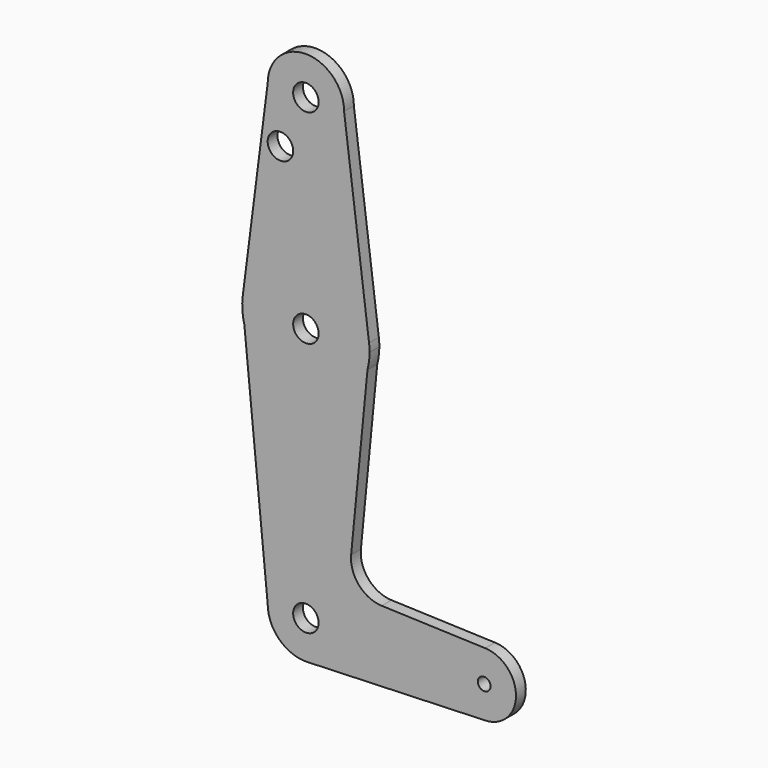
from build123d import *

# Parameters (mm, degrees)
F0_R     = 3.175
F0_R_2   = 1.5875
F1_DEPTH = 3.048


with BuildPart() as f1:
    # F0 (on Front) → F1 (new body)
    with BuildSketch(Plane.XZ):
        with BuildLine():
            ThreePointArc((-9.525, 50.8), (0, 41.275), (9.525, 50.8))
            ThreePointArc((9.525, 50.8), (0, 60.325), (-9.525, 50.8))
        make_face()
        with Locations((0, 50.8)):
            Circle(F0_R, mode=Mode.SUBTRACT)
        with BuildLine():
            Line((15.7474569047, 2.0082893304), (9.525, 50.8))
            ThreePointArc((9.525, 50.8), (0, 41.275), (-9.525, 50.8))
            Line((-9.525, 50.8), (-15.7474569047, 2.0082893304))
            ThreePointArc((-15.7474569047, 2.0082893304), (0, 15.875), (15.7474569047, 2.0082893304))
        make_face()
        with Locations((-6.3499999233, 37.9903614521)):
            Circle(F0_R, mode=Mode.SUBTRACT)
        with BuildLine():
            ThreePointArc((15.875, 0), (15.8430821396, 1.0061676396), (15.7474569047, 2.0082893304))
            ThreePointArc((15.7474569047, 2.0082893304), (0, 15.875), (-15.7474569047, 2.0082893304))
            ThreePointArc((-15.7474569047, 2.0082893304), (-15.8410772543, -1.0372542708), (-15.3511220626, -4.0445860627))
            ThreePointArc((-15.3511220626, -4.0445860627), (0.0095201925, -15.8749971454), (15.3559620737, -4.0261711081))
            ThreePointArc((15.3559620737, -4.0261711081), (15.7447058232, -2.0297446983), (15.875, 0))
        make_face()
        Circle(F0_R, mode=Mode.SUBTRACT)
        with BuildLine():
            ThreePointArc((15.3559620737, -4.0261711081), (0.0095201925, -15.8749971454), (-15.3511220626, -4.0445860627))
            Line((-15.3511220626, -4.0445860627), (-9.525, -63.5))
            ThreePointArc((-9.525, -63.5), (0, -53.975), (9.525, -63.5))
            ThreePointArc((9.525, -63.5), (6.8547876396, -70.113434162), (0.3412705689, -73.0188843568))
            Line((0.3412705689, -73.0188843568), (44.45, -71.4375))
            ThreePointArc((44.45, -71.4375), (36.5137564458, -63.3587750079), (44.7324052746, -55.5675253854))
            Line((44.7324052746, -55.5675253854), (18.9110048151, -54.6482536524))
            ThreePointArc((18.9110048151, -54.6482536524), (13.2123431908, -51.9401772549), (11.2809825881, -45.9336584375))
            Line((11.2809825881, -45.9336584375), (15.3559620737, -4.0261711081))
        make_face()
        with BuildLine():
            Line((-3.175, -63.5), (-9.525, -63.5))
            ThreePointArc((-9.525, -63.5), (-6.613434162, -70.3547876396), (0.3412705689, -73.0188843568))
            ThreePointArc((0.3412705689, -73.0188843568), (6.8547876396, -70.113434162), (9.525, -63.5))
            Line((9.525, -63.5), (3.175, -63.5))
            ThreePointArc((3.175, -63.5), (0, -66.675), (-3.175, -63.5))
        make_face()
        with BuildLine():
            ThreePointArc((9.525, -63.5), (0, -53.975), (-9.525, -63.5))
            Line((-9.525, -63.5), (-3.175, -63.5))
            ThreePointArc((-3.175, -63.5), (0, -60.325), (3.175, -63.5))
            Line((3.175, -63.5), (9.525, -63.5))
        make_face()
        with BuildLine():
            ThreePointArc((44.7324052746, -55.5675253854), (36.5137564458, -63.3587750079), (44.45, -71.4375))
            ThreePointArc((44.45, -71.4375), (50.0626600757, -69.1126600757), (52.3875, -63.5))
            ThreePointArc((52.3875, -63.5), (50.1616327839, -57.9880895153), (44.7324052746, -55.5675253854))
        make_face()
        with Locations((44.45, -63.5)):
            Circle(F0_R_2, mode=Mode.SUBTRACT)
    extrude(amount=F1_DEPTH)


solid = f1.part
